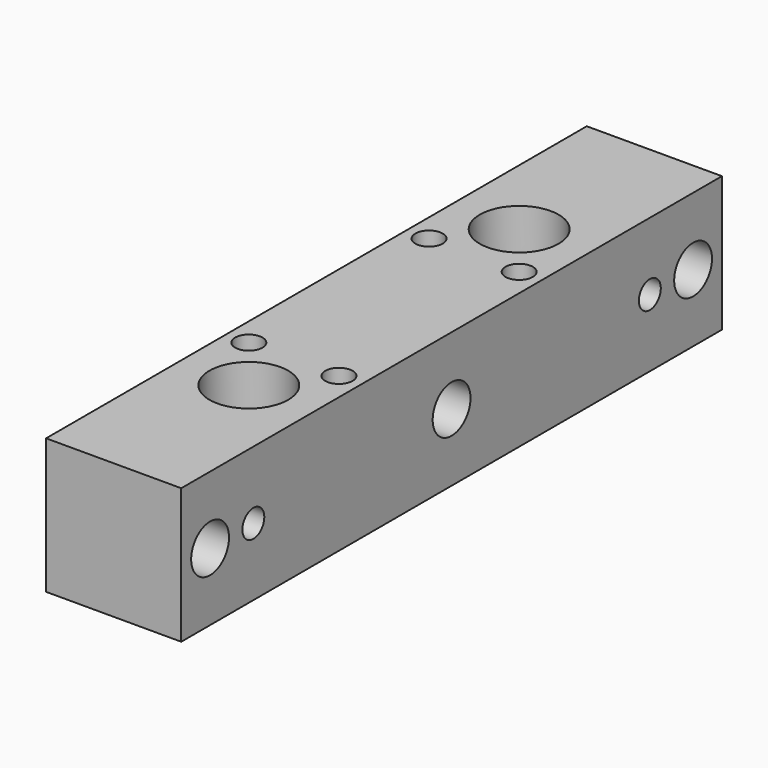
from build123d import *

# Parameters (mm, degrees)
F0_W     = 30
F0_H     = 30
F1_DEPTH = 150
F2_R     = 5.25
F3_DEPTH = 30.001
F4_R     = 5.25
F4_R_2   = 3.0375
F5_DEPTH = 30.001
F6_R     = 8.75
F7_DEPTH = 11
F8_R     = 3.0375
F9_DEPTH = 30.001


with BuildPart() as f1:
    # F0 (on Front) → F1 (new body)
    with BuildSketch(Plane.XZ):
        Rectangle(F0_W, F0_H)
    extrude(amount=F1_DEPTH)

    # F2 (on face) → F3 (cut, through all)
    with BuildSketch(Plane(origin=(-15, 0, 0), x_dir=(0, -1, 0), z_dir=(-1, 0, 0))):
        with Locations((8, 0)):
            Circle(F2_R)
        with Locations((75, 0)):
            Circle(F2_R)
        with Locations((142, 0)):
            Circle(F2_R)
    extrude(amount=-F3_DEPTH, mode=Mode.SUBTRACT)

    # F4 (on face) → F5 (cut, through all)
    with BuildSketch(Plane.XY.offset(15)):
        with Locations((0, -37.5)):
            Circle(F4_R)
        with Locations((10, -50)):
            Circle(F4_R_2)
        with Locations((0, -112.5)):
            Circle(F4_R)
        with Locations((10, -100)):
            Circle(F4_R_2)
        with Locations((-10, -50)):
            Circle(F4_R_2)
        with Locations((-10, -100)):
            Circle(F4_R_2)
    extrude(amount=-F5_DEPTH, mode=Mode.SUBTRACT)

    # F6 (on face) → F7 (cut)
    with BuildSketch(Plane.XY.offset(15)):
        with Locations((0, -37.5)):
            Circle(F6_R)
        with Locations((0, -112.5)):
            Circle(F6_R)
    extrude(amount=-F7_DEPTH, mode=Mode.SUBTRACT)

    # F8 (on face) → F9 (cut, through all)
    with BuildSketch(Plane(origin=(-15, 0, 0), x_dir=(0, -1, 0), z_dir=(-1, 0, 0))):
        with Locations((20, 0)):
            Circle(F8_R)
        with Locations((130, 0)):
            Circle(F8_R)
    extrude(amount=-F9_DEPTH, mode=Mode.SUBTRACT)


solid = f1.part
